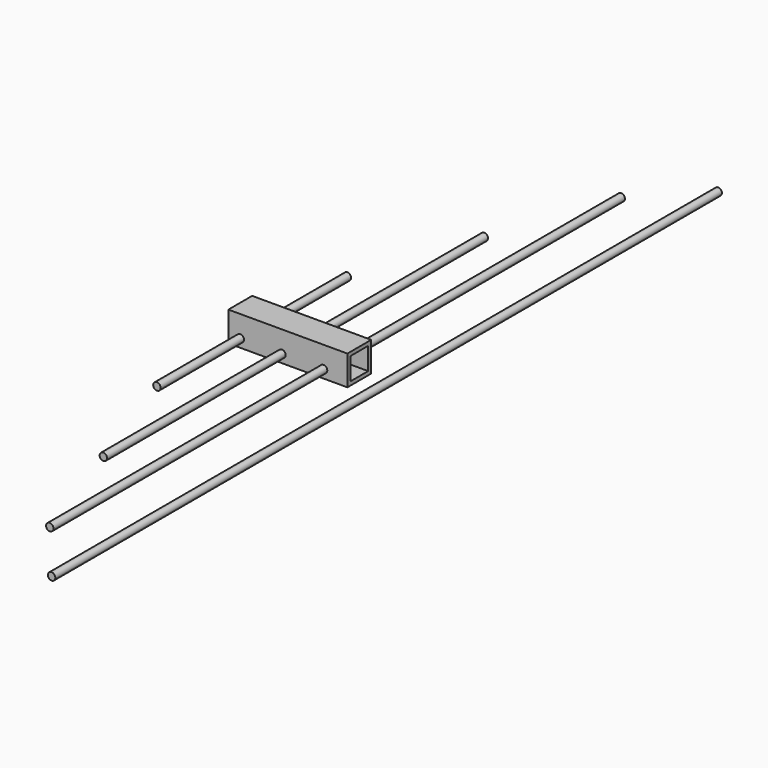
from build123d import *

# Parameters (mm, degrees)
CYLINDER005_R           = 1.5875
CYLINDER005_DEPTH       = 203.2
CYLINDER006_R           = 1.5875
CYLINDER006_DEPTH       = 304.8
CYLINDER007_R           = 1.5875
CYLINDER007_DEPTH       = 355.6
SKETCH024_W             = 12.7
SKETCH024_H             = 12.7
SKETCH024_W_2           = 9.4996
SKETCH024_H_2           = 9.4996
PAD010_DEPTH            = 50.8
BODY017_PLACEMENT_ANGLE = 90
CYLINDER004_R           = 1.5875
CYLINDER004_DEPTH       = 101.6


with BuildPart() as cylinder005:
    # Cylinder005 → Cylinder005 (new body)
    with BuildSketch(Plane(origin=(162.56, -101.6, 905.26), x_dir=(1, 0, 0), z_dir=(0, 1, 0))):
        Circle(CYLINDER005_R)
    extrude(amount=CYLINDER005_DEPTH)


with BuildPart() as cylinder006:
    # Cylinder006 → Cylinder006 (new body)
    with BuildSketch(Plane(origin=(180.34, -152.4, 905.26), x_dir=(1, 0, 0), z_dir=(0, 1, 0))):
        Circle(CYLINDER006_R)
    extrude(amount=CYLINDER006_DEPTH)


with BuildPart() as cylinder007:
    # Cylinder007 → Cylinder007 (new body)
    with BuildSketch(Plane(origin=(201.422, -177.8, 903.9352), x_dir=(1, 0, 0), z_dir=(0, 1, 0))):
        Circle(CYLINDER007_R)
    extrude(amount=CYLINDER007_DEPTH)


with BuildPart() as body018:
    # Sketch024 → Pad010 (new body)
    with BuildSketch(Plane.XZ):
        with Locations((6.35, -6.35)):
            Rectangle(SKETCH024_W, SKETCH024_H)
        with Locations((6.35, -6.35)):
            Rectangle(SKETCH024_W_2, SKETCH024_H_2, mode=Mode.SUBTRACT)
    extrude(amount=PAD010_DEPTH)


with BuildPart() as body018_1:
    # Body017 placement: moved
    add(body018.part.moved(Location((139.7, -6.35, 914.4))).rotate(Axis((139.7, -6.35, 914.4), (0, 0, 1)), BODY017_PLACEMENT_ANGLE))


with BuildPart() as back_wing_support:
    # Cylinder004 → Cylinder004 (new body)
    with BuildSketch(Plane(origin=(144.78, -50.8, 905.256), x_dir=(1, 0, 0), z_dir=(0, 1, 0))):
        Circle(CYLINDER004_R)
    extrude(amount=CYLINDER004_DEPTH)

    # Fusion018: union Cylinder005, Cylinder006, Cylinder007, Body018
    add(cylinder005.part)
    add(cylinder006.part)
    add(cylinder007.part)
    add(body018_1.part)


with BuildPart() as back_wing_support_1:
    # Fusion018 placement: moved
    add(back_wing_support.part.moved(Location((-353.2632, 0, -433.4256))))


solid = back_wing_support_1.part
